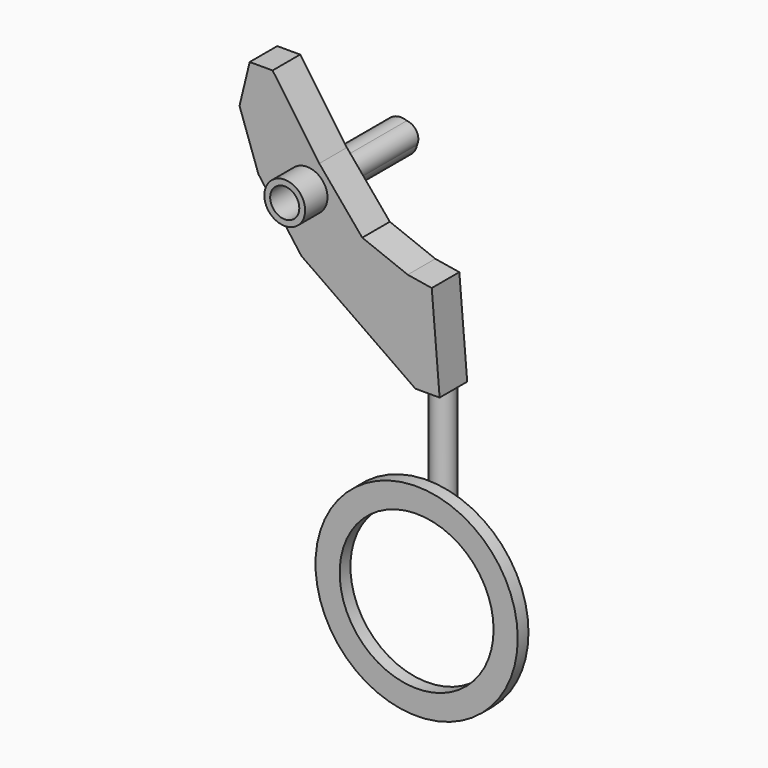
from build123d import *

# Parameters (mm, degrees)
F0_R     = 8.6622611631
F1_DEPTH = 25.4
F3_DEPTH = 60.96
F4_R     = 15.0433700518
F4_R_2   = 10.7311832287
F5_DEPTH = 20.574
F6_R     = 8.3074549113
F7_DEPTH = 86.614
F8_R     = 74.5371885504
F8_R_2   = 56.7230556975
F9_DEPTH = 9.906


with BuildPart() as f1:
    # F0 (on Front) → F1 (new body)
    with BuildSketch(Plane.XZ):
        Polygon((64.5420327783, 27.3047611117), (46.8248836696, 30.204096809), (52.4840392172, -41.9203862548), (70.3510344028, -41.9203862548), align=None)
        Polygon((52.4840392172, -41.9203862548), (46.8248836696, 30.204096809), (13.3099230006, 43.3333665133), (-18.349474296, 81.1676234007), (-52.7794659138, 130.3466409445), (-69.670855999, 130.3466409445), (-77.1632641554, 99.4534641504), (-63.224196434, 59.6231296659), (-31.5679907799, 16.8934687972), align=None)
        with Locations((-27.3722410202, 61.0688850284)):
            Circle(F0_R, mode=Mode.SUBTRACT)
    extrude(amount=F1_DEPTH)

    # F2 (on face) → F3 (join)
    with BuildSketch(Plane(origin=(0, 0, 0), x_dir=(-1, 0, 0), z_dir=(0, 1, 0))):
        with BuildLine():
            ThreePointArc((15.4417673277, 58.984396686), (28.418395355, 49.0029472163), (39.483446335, 61.0688850284))
            ThreePointArc((39.483446335, 61.0688850284), (34.1934272036, 71.0765177768), (22.9445948127, 72.3417392915))
            ThreePointArc((22.9445948127, 72.3417392915), (29.8672294993, 69.9078012829), (32.7983092404, 63.180565834))
            ThreePointArc((32.7983092404, 63.180565834), (25.7713288184, 54.2522767667), (15.4417673277, 58.984396686))
        make_face()
        with BuildLine():
            ThreePointArc((32.7983092404, 63.180565834), (29.8672294993, 69.9078012829), (22.9445948127, 72.3417392915))
            ThreePointArc((22.9445948127, 72.3417392915), (16.8128058063, 67.0001262257), (15.4417673277, 58.984396686))
            ThreePointArc((15.4417673277, 58.984396686), (25.7713288184, 54.2522767667), (32.7983092404, 63.180565834))
        make_face()
        with BuildLine():
            ThreePointArc((15.4417673277, 58.984396686), (16.8128058063, 67.0001262257), (22.9445948127, 72.3417392915))
            ThreePointArc((22.9445948127, 72.3417392915), (15.6041991141, 67.6790013416), (15.4417673277, 58.984396686))
        make_face()
    extrude(amount=F3_DEPTH)

    # F4 (on face) → F5 (join)
    with BuildSketch(Plane.XZ.offset(25.4)):
        with Locations((-27.3722410202, 61.0688850284)):
            Circle(F4_R)
        with Locations((-27.3722410202, 61.0688850284)):
            Circle(F4_R_2, mode=Mode.SUBTRACT)
    extrude(amount=F5_DEPTH)

    # F6 (on face) → F7 (join)
    with BuildSketch(Plane(origin=(0, 0, -41.9203862548), x_dir=(1, 0, 0), z_dir=(0, 0, -1))):
        with Locations((61.0519275069, 10.5647565797)):
            Circle(F6_R)
    extrude(amount=F7_DEPTH)


with BuildPart() as f9:
    # F8 (on face) → F9 (new body)
    with BuildSketch(Plane.XZ.offset(25.4)):
        with Locations((61.3104067743, -172.9265898466)):
            Circle(F8_R)
        with Locations((61.3104067743, -172.9265898466)):
            Circle(F8_R_2, mode=Mode.SUBTRACT)
    extrude(amount=F9_DEPTH)


solid = Compound([f1.part, f9.part])
